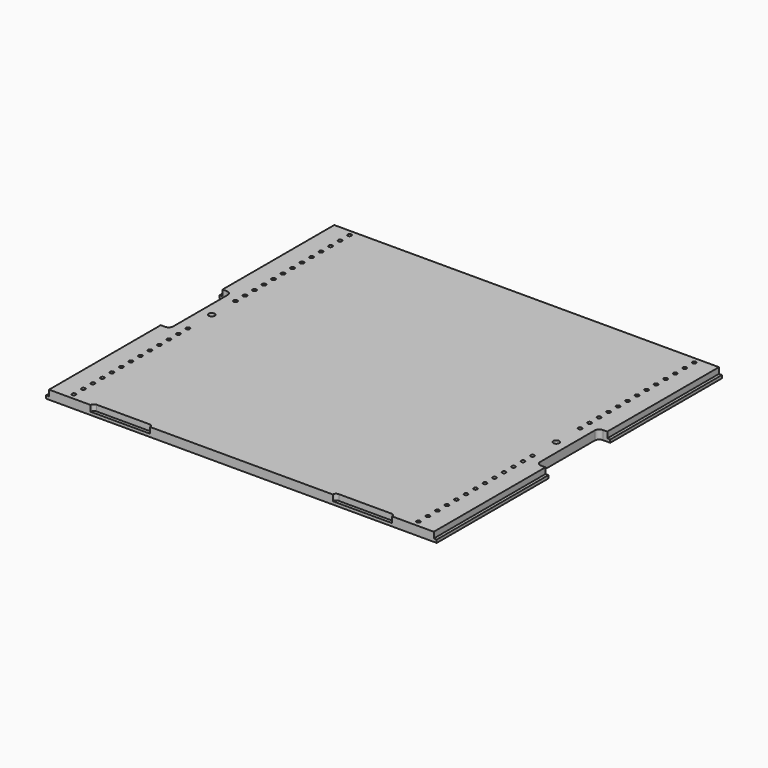
from build123d import *

# Parameters (mm, degrees)
F0_W     = 835.025
F0_H     = 762
F1_DEPTH = 19.05
F2_W     = 6.35
F2_H     = 165.1
F3_DEPTH = 19.051
F2_H_2   = 298.45
F4_DEPTH = 12.7
F5_R     = 4.0132
F5_R_2   = 6.35
F6_DEPTH = 25.4


with BuildPart() as f1:
    # F0 (on Top) → F1 (new body)
    with BuildSketch(Plane.XY):
        Rectangle(F0_W, F0_H)
    extrude(amount=F1_DEPTH)

    # F2 (on face) → F3 (cut, through all)
    with BuildSketch(Plane.XY.offset(19.05)):
        with Locations((-420.6875, 0)):
            Rectangle(F2_W, F2_H)
        with Locations((-414.3375, 0)):
            Rectangle(F2_W, F2_H)
        with BuildLine():
            Line((-401.6375, 82.55), (-411.1625, 82.55))
            Line((-411.1625, 82.55), (-411.1625, -82.55))
            Line((-411.1625, -82.55), (-401.6375, -82.55))
            ThreePointArc((-401.6375, -82.55), (-394.9023079092, -79.7601920908), (-392.1125, -73.025))
            Line((-392.1125, -73.025), (-392.1125, 73.025))
            ThreePointArc((-392.1125, 73.025), (-394.9023079092, 79.7601920908), (-401.6375, 82.55))
        make_face()
        with BuildLine():
            Line((411.1625, -82.55), (411.1625, 82.55))
            Line((411.1625, 82.55), (401.6375, 82.55))
            ThreePointArc((401.6375, 82.55), (394.9023079092, 79.7601920908), (392.1125, 73.025))
            Line((392.1125, 73.025), (392.1125, -73.025))
            ThreePointArc((392.1125, -73.025), (394.9023079092, -79.7601920908), (401.6375, -82.55))
            Line((401.6375, -82.55), (411.1625, -82.55))
        make_face()
        with Locations((420.6875, 0)):
            Rectangle(F2_W, F2_H)
        with Locations((414.3375, 0)):
            Rectangle(F2_W, F2_H)
    extrude(amount=-F3_DEPTH, mode=Mode.SUBTRACT)

    # F2 (on face) → F4 (cut)
    with BuildSketch(Plane.XY.offset(19.05)):
        with Locations((-414.3375, 231.775)):
            Rectangle(F2_W, F2_H_2)
        with Locations((-414.3375, -231.775)):
            Rectangle(F2_W, F2_H_2)
        with Locations((414.3375, 231.775)):
            Rectangle(F2_W, F2_H_2)
        with Locations((414.3375, -231.775)):
            Rectangle(F2_W, F2_H_2)
        with BuildLine():
            ThreePointArc((202.40625, -373.85625), (197.3548559319, -375.9486059319), (195.2625, -381))
            Line((195.2625, -381), (322.2625, -381))
            ThreePointArc((322.2625, -381), (320.1701440681, -375.9486059319), (315.11875, -373.85625))
            Line((315.11875, -373.85625), (202.40625, -373.85625))
        make_face()
        with BuildLine():
            ThreePointArc((-315.11875, -373.85625), (-320.1701440681, -375.9486059319), (-322.2625, -381))
            Line((-322.2625, -381), (-195.2625, -381))
            ThreePointArc((-195.2625, -381), (-197.3548559319, -375.9486059319), (-202.40625, -373.85625))
            Line((-202.40625, -373.85625), (-315.11875, -373.85625))
        make_face()
    extrude(amount=-F4_DEPTH, mode=Mode.SUBTRACT)

    # F5 (on face) → F6 (cut)
    with BuildSketch(Plane.XY.offset(19.05)):
        with Locations((-368.3, 63.5)):
            Circle(F5_R)
        with Locations((-368.3, 88.9)):
            Circle(F5_R)
        with Locations((-368.3, 114.3)):
            Circle(F5_R)
        with Locations((-368.3, 139.7)):
            Circle(F5_R)
        with Locations((-368.3, 165.1)):
            Circle(F5_R)
        with Locations((-368.3, 190.5)):
            Circle(F5_R)
        with Locations((-368.3, 215.9)):
            Circle(F5_R)
        with Locations((-368.3, 241.3)):
            Circle(F5_R)
        with Locations((-368.3, 266.7)):
            Circle(F5_R)
        with Locations((-368.3, 292.1)):
            Circle(F5_R)
        with Locations((-368.3, 317.5)):
            Circle(F5_R)
        with Locations((-368.3, 342.9)):
            Circle(F5_R)
        with Locations((-368.3, 368.3)):
            Circle(F5_R)
        with Locations((368.3, 317.5)):
            Circle(F5_R)
        with Locations((368.3, 292.1)):
            Circle(F5_R)
        with Locations((368.3, 266.7)):
            Circle(F5_R)
        with Locations((368.3, 241.3)):
            Circle(F5_R)
        with Locations((368.3, 215.9)):
            Circle(F5_R)
        with Locations((368.3, 190.5)):
            Circle(F5_R)
        with Locations((368.3, 165.1)):
            Circle(F5_R)
        with Locations((368.3, 139.7)):
            Circle(F5_R)
        with Locations((368.3, 114.3)):
            Circle(F5_R)
        with Locations((368.3, 368.3)):
            Circle(F5_R)
        with Locations((368.3, 342.9)):
            Circle(F5_R)
        with Locations((368.3, 88.9)):
            Circle(F5_R)
        with Locations((368.3, 63.5)):
            Circle(F5_R)
        with BuildLine():
            Line((-368.3, -63.5), (-364.2868, -63.5))
            ThreePointArc((-364.2868, -63.5), (-371.1377609343, -60.6622390657), (-368.3, -67.5132))
            Line((-368.3, -67.5132), (-368.3, -63.5))
        make_face()
        with BuildLine():
            ThreePointArc((-364.2868, -88.9), (-365.4622390657, -86.0622390657), (-368.3, -84.8868))
            ThreePointArc((-368.3, -84.8868), (-371.1377609343, -91.7377609343), (-364.2868, -88.9))
        make_face()
        with BuildLine():
            ThreePointArc((-368.3, -67.5132), (-365.4622390657, -66.3377609343), (-364.2868, -63.5))
            Line((-364.2868, -63.5), (-368.3, -63.5))
            Line((-368.3, -63.5), (-368.3, -67.5132))
        make_face()
        with Locations((-368.3, -317.5)):
            Circle(F5_R)
        with Locations((-368.3, -292.1)):
            Circle(F5_R)
        with Locations((-368.3, -266.7)):
            Circle(F5_R)
        with Locations((-368.3, -241.3)):
            Circle(F5_R)
        with Locations((-368.3, -215.9)):
            Circle(F5_R)
        with Locations((368.3, -292.1)):
            Circle(F5_R)
        with Locations((-368.3, -190.5)):
            Circle(F5_R)
        with Locations((-368.3, -165.1)):
            Circle(F5_R)
        with Locations((-368.3, -139.7)):
            Circle(F5_R)
        with Locations((368.3, -190.5)):
            Circle(F5_R)
        with Locations((-368.3, -114.3)):
            Circle(F5_R)
        with Locations((368.3, -368.3)):
            Circle(F5_R)
        with Locations((368.3, -266.7)):
            Circle(F5_R)
        with Locations((368.3, -342.9)):
            Circle(F5_R)
        with Locations((368.3, -63.5)):
            Circle(F5_R)
        with Locations((368.3, -241.3)):
            Circle(F5_R)
        with Locations((368.3, -165.1)):
            Circle(F5_R)
        with Locations((368.3, -317.5)):
            Circle(F5_R)
        with Locations((368.3, -88.9)):
            Circle(F5_R)
        with Locations((368.3, -139.7)):
            Circle(F5_R)
        with Locations((368.3, -215.9)):
            Circle(F5_R)
        with Locations((-368.3, -342.9)):
            Circle(F5_R)
        with Locations((-368.3, -368.3)):
            Circle(F5_R)
        with Locations((368.3, -114.3)):
            Circle(F5_R)
        with Locations((-368.3, 0)):
            Circle(F5_R_2)
        with Locations((368.3, 0)):
            Circle(F5_R_2)
    extrude(amount=-F6_DEPTH, mode=Mode.SUBTRACT)


solid = f1.part
